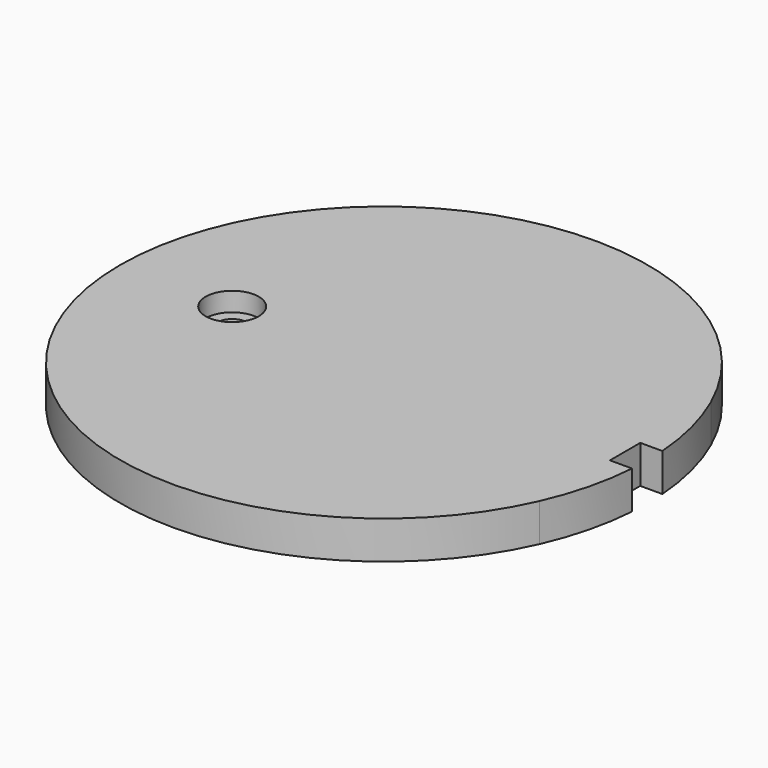
from build123d import *

# Parameters (mm, degrees)
F0_R     = 3.5
F1_DEPTH = 5
F0_R_2   = 2
F2_DEPTH = 2.5


with BuildPart() as f1:
    # F0 (on Top) → F1 (new body)
    with BuildSketch(Plane.XY):
        with BuildLine():
            Line((31.788736, 2.5), (31.788736, 14.132672))
            ThreePointArc((31.788736, 14.132672), (-34.788736, 0), (31.788736, -14.132672))
            Line((31.788736, -14.132672), (31.788736, -2.5))
            Line((31.788736, -2.5), (31.788736, 2.5))
        make_face()
        with Locations((-20, 0)):
            Circle(F0_R, mode=Mode.SUBTRACT)
        with BuildLine():
            Line((31.788736, 2.5), (34.698792, 2.5))
            ThreePointArc((34.698792, 2.5), (33.748742, 8.442662), (31.788736, 14.132672))
            Line((31.788736, 14.132672), (31.788736, 2.5))
        make_face()
        with BuildLine():
            ThreePointArc((31.788736, -14.132672), (33.748742, -8.442662), (34.698792, -2.5))
            Line((34.698792, -2.5), (31.788736, -2.5))
            Line((31.788736, -2.5), (31.788736, -14.132672))
        make_face()
    extrude(amount=F1_DEPTH)

    # F0 (on Top) → F2 (join)
    with BuildSketch(Plane.XY):
        with Locations((-20, 0)):
            Circle(F0_R)
        with Locations((-20, 0)):
            Circle(F0_R_2, mode=Mode.SUBTRACT)
    extrude(amount=F2_DEPTH)


solid = f1.part
